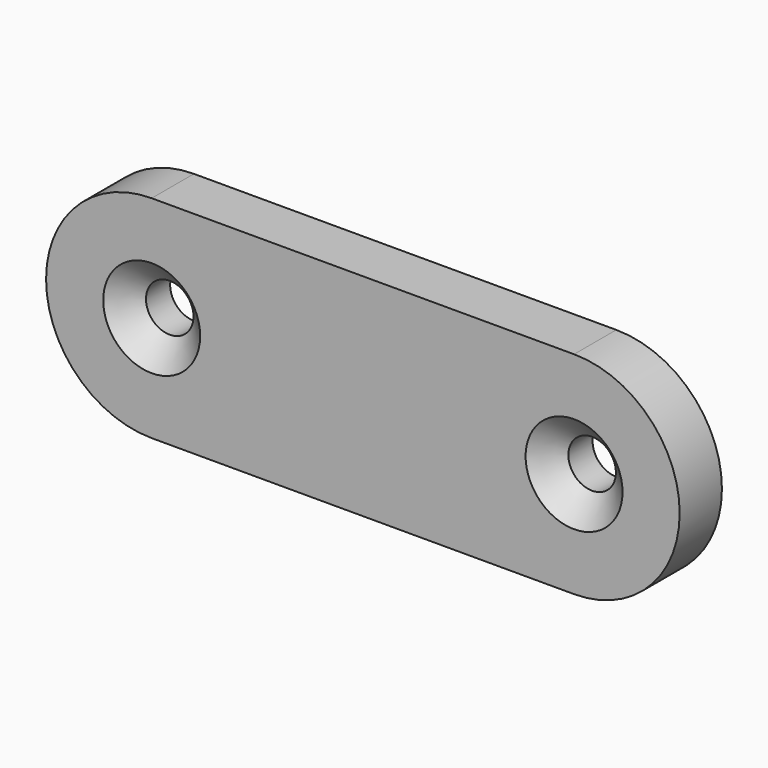
from build123d import *

# Parameters (mm, degrees)
F0_R     = 2.25
F1_DEPTH = 5
F2_SIZE2 = 2.34
F2_SIZE  = 2.137


with BuildPart() as f1:
    # F0 (on Front) → F1 (new body)
    with BuildSketch(Plane.XZ):
        with BuildLine():
            Line((20, 10), (-20, 10))
            ThreePointArc((-20, 10), (-30, 0), (-20, -10))
            Line((-20, -10), (20, -10))
            ThreePointArc((20, -10), (30, 0), (20, 10))
        make_face()
        with Locations((-20, 0)):
            Circle(F0_R, mode=Mode.SUBTRACT)
        with Locations((20, 0)):
            Circle(F0_R, mode=Mode.SUBTRACT)
    extrude(amount=F1_DEPTH)

    # F2
    f2_edges = [f1.edges().sort_by_distance(p)[0] for p in [
        (17.75, -5, 0),
        (-22.25, -5, 0),
    ]]
    chamfer(f2_edges, length=F2_SIZE, length2=F2_SIZE2)


solid = f1.part
